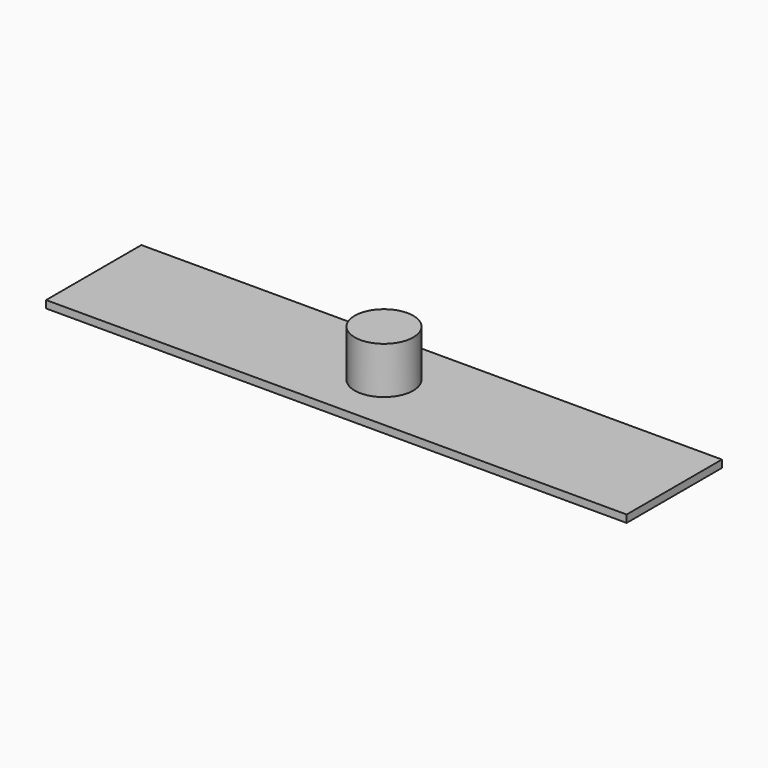
from build123d import *

# Parameters (mm, degrees)
BOX_W     = 495.3
BOX_H     = 101.6
BOX_DEPTH = 6.35
SKETCH_R  = 25
PAD_DEPTH = 40


with BuildPart() as part:
    # Box → Box (new body)
    with BuildSketch(Plane.XY):
        with Locations((247.65, 50.8)):
            Rectangle(BOX_W, BOX_H)
    extrude(amount=BOX_DEPTH)

    # Sketch → Pad (new body)
    with BuildSketch(Plane.XY.offset(6.35)):
        with Locations((247.65, 50.8)):
            Circle(SKETCH_R)
    extrude(amount=PAD_DEPTH)


solid = part.part
